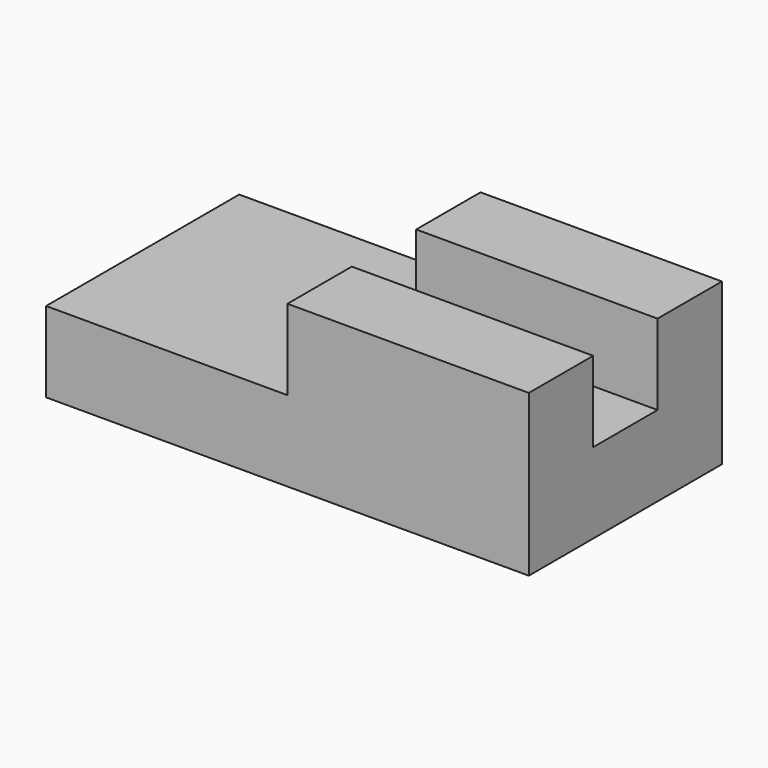
from build123d import *

# Parameters (mm, degrees)
F0_W     = 76.2
F0_H     = 25.4
F1_DEPTH = 25.4
F2_DEPTH = 50.8


with BuildPart() as f1:
    # F0 (on Top) → F1 (new body)
    with BuildSketch(Plane.XY):
        Polygon((8.113823, 83.79674), (8.113823, 109.19674), (-68.086177, 109.19674), (-68.086177, 32.99674), (8.113823, 32.99674), (8.113823, 58.39674), align=None)
        with Locations((46.213823, 71.09674)):
            Rectangle(F0_W, F0_H)
    extrude(amount=F1_DEPTH)

    # F0 (on Top) → F2 (join)
    with BuildSketch(Plane.XY):
        with Locations((46.213823, 96.49674)):
            Rectangle(F0_W, F0_H)
        with Locations((46.213823, 45.69674)):
            Rectangle(F0_W, F0_H)
    extrude(amount=F2_DEPTH)


solid = f1.part
